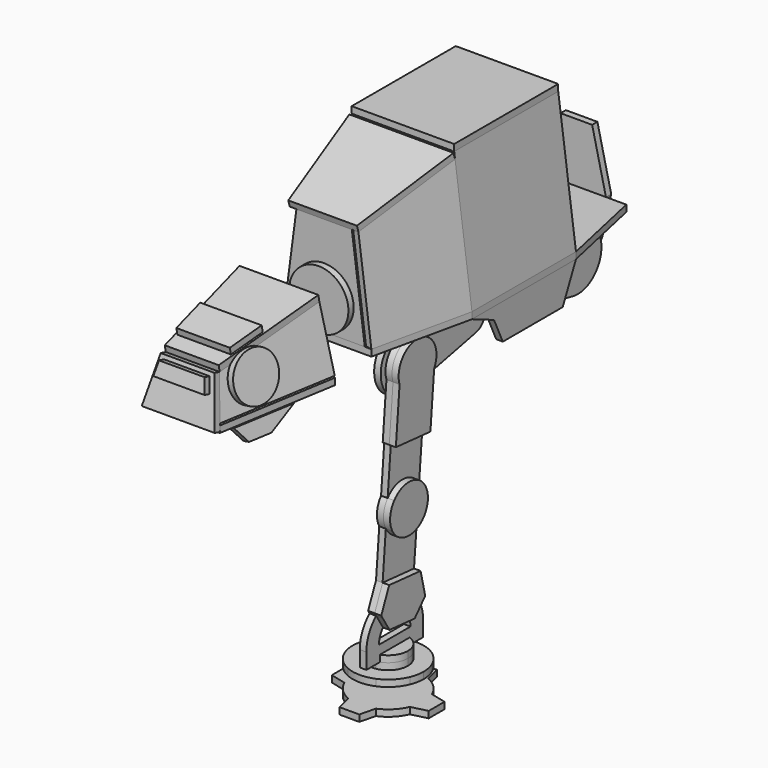
from build123d import *

# Parameters (mm, degrees)
F48_DEPTH = 5
F5_W      = 99
F5_H      = 103.8809414667
F49_DEPTH = 5
F7_W      = 78
F7_H      = 99
F50_DEPTH = 5
F51_DEPTH = 5
F52_DEPTH = 5
F24_R     = 22.5
F53_DEPTH = 5
F54_DEPTH = 5
F18_W     = 45
F18_H     = 165
F55_DEPTH = 5
F56_DEPTH = 5
F57_DEPTH = 5
F58_DEPTH = 5
F59_DEPTH = 5
F60_DEPTH = 5
F61_DEPTH = 5
F62_DEPTH = 5
F63_DEPTH = 5
F64_DEPTH = 5
F65_START = -5
F65_DEPTH = 5
F66_START = 5
F66_DEPTH = 5
F38_R     = 18
F67_DEPTH = 5
F68_DEPTH = 5
F69_START = 5
F69_DEPTH = 5
F70_DEPTH = 5
F71_DEPTH = 5
F72_DEPTH = 5
F73_START = -20
F73_DEPTH = 5
F74_DEPTH = 5
F76_DEPTH = 5
F78_DEPTH = 5


with BuildPart() as f48:
    # F2 (on Top) → F48 (new body)
    with BuildSketch(Plane.XY):
        Polygon((-37.98, 115.5), (-52.5, 49.5), (-52.5, -49.5), (-36, -124.5), (36, -124.5), (52.5, -49.5), (52.5, 49.5), (37.98, 115.5), align=None)
    extrude(amount=-F48_DEPTH)


with BuildPart() as f49:
    # F5 (on 3pt) → F49 (new body)
    with BuildSketch(Plane(origin=(51.6133441446, 0, 6.7648557859), x_dir=(0, -1, 0), z_dir=(-0.9915197008, 0, -0.1299564656))):
        with Locations((0, 45.1177562874)):
            Rectangle(F5_W, F5_H)
    extrude(amount=F49_DEPTH)


with BuildPart() as f50:
    # F7 (on 3pt) → F50 (new body)
    with BuildSketch(Plane(origin=(0, 0, 103), x_dir=(1, 0, 0), z_dir=(0, 0, -1))):
        Rectangle(F7_W, F7_H)
    extrude(amount=-F50_DEPTH)


with BuildPart() as f51:
    # F9 (on 3pt) → F51 (new body)
    with BuildSketch(Plane(origin=(59.4887955529, -13.0875350216, 7.7970751453), x_dir=(-0.211315445, -0.9770254226, -0.0276966845), z_dir=(-0.9687399547, 0.21312279, -0.1269707708))):
        Polygon((37.2686975556, -6.8227144459), (114.0323090917, -4.6784327629), (114.0323090917, 71.3215672371), (37.2686975556, 92.0582270207), align=None)
    extrude(amount=F51_DEPTH)


with BuildPart() as f52:
    # F13 (on 3pt) → F52 (new body)
    with BuildSketch(Plane(origin=(0, -31.3204983116, 103.5415563477), x_dir=(1, 0, 0), z_dir=(0, -0.2895354979, 0.9571672766))):
        Polygon((-39.6497823282, -18.9930246596), (-26.1233086116, -97.349234521), (26.1233086116, -97.349234521), (39.6497823282, -18.9930246596), align=None)
    extrude(amount=F52_DEPTH)


with BuildPart() as f53:
    # F24 (on face) → F53 (new body)
    with BuildSketch(Plane(origin=(0, -124.5, 0), x_dir=(-1, 0, 0), z_dir=(0, 1, 0))):
        Polygon((-21.0805444628, 75.3554972594), (-30.9572358511, 0), (30.9572358511, 0), (21.0805444628, 75.3554972594), align=None)
        with Locations((0, 23.5)):
            Circle(F24_R, mode=Mode.SUBTRACT)
        with Locations((0, 23.5)):
            Circle(F24_R)
    extrude(amount=F53_DEPTH)


with BuildPart() as f54:
    # F15 (on offset) → F54 (new body)
    with BuildSketch(Plane.YZ.offset(22.5)):
        with BuildLine():
            Line((82.5, -5), (-82.5, -5))
            ThreePointArc((-82.5, -5), (-104.8813194606, -29.8079296359), (-77.908487958, -49.5265298485))
            Line((-77.908487958, -49.5265298485), (-14.3572943804, -36.2790472626))
            ThreePointArc((-14.3572943804, -36.2790472626), (-8.3529634527, -32.6238806977), (-6, -26))
            Line((-6, -26), (6, -26))
            ThreePointArc((6, -26), (8.3529634527, -32.6238806977), (14.3572943804, -36.2790472626))
            Line((14.3572943804, -36.2790472626), (77.908487958, -49.5265298485))
            ThreePointArc((77.908487958, -49.5265298485), (104.8813194606, -29.8079296359), (82.5, -5))
        make_face()
    extrude(amount=F54_DEPTH)


with BuildPart() as f55:
    # F18 (on plane+point) → F55 (new body)
    with BuildSketch(Plane.XY.offset(-26)):
        Rectangle(F18_W, F18_H)
    extrude(amount=F55_DEPTH)


with BuildPart() as f56:
    # F20 (on plane+point) → F56 (new body)
    with BuildSketch(Plane.XZ.offset(-82.5)):
        with BuildLine():
            Line((22.5, -26), (22.5, -5))
            Line((22.5, -5), (-22.5, -5))
            Line((-22.5, -5), (-22.5, -26))
            ThreePointArc((-22.5, -26), (0, -48.5), (22.5, -26))
        make_face()
    extrude(amount=-F56_DEPTH)


with BuildPart() as f57:
    # F23 (on plane+point) → F57 (new body)
    with BuildSketch(Plane.XZ.offset(-115.5)):
        with BuildLine():
            Line((16.1276612262, -29.4854760611), (22.5, 0))
            Line((22.5, 0), (12, 45))
            Line((12, 45), (-12, 45))
            Line((-12, 45), (-22.5, 0))
            Line((-22.5, 0), (-16.1276612262, -29.4854760611))
            ThreePointArc((-16.1276612262, -29.4854760611), (0, -42.5), (16.1276612262, -29.4854760611))
        make_face()
    extrude(amount=-F57_DEPTH)


with BuildPart() as f58:
    # F24 (on face) → F58 (new body)
    with BuildSketch(Plane(origin=(0, -124.5, 0), x_dir=(-1, 0, 0), z_dir=(0, 1, 0))):
        with Locations((0, 23.5)):
            Circle(F24_R)
    extrude(amount=-F58_DEPTH)


with BuildPart() as f59:
    # F47 (on plane+point) → F59 (new body)
    with BuildSketch(Plane.YZ.offset(52.5)):
        Polygon((49.5, -5), (-49.5, -5), (-28.5, -14), (-20.1, -32), (36.9, -32), align=None)
    extrude(amount=-F59_DEPTH)


with BuildPart() as f60:
    # F29 (on plane+point) → F60 (new body)
    with BuildSketch(Plane.XY):
        Polygon((42, -166.5), (-42, -166.5), (-27, -257.5), (27, -257.5), align=None)
    extrude(amount=-F60_DEPTH)


with BuildPart() as f61:
    # F26 (on offset) → F61 (new body)
    with BuildSketch(Plane(origin=(0, -166.5, 0), x_dir=(-1, 0, 0), z_dir=(0, 1, 0))):
        Polygon((-37, 0), (37, 0), (25, 47), (-25, 47), align=None)
    extrude(amount=-F61_DEPTH)


with BuildPart() as f62:
    # F31 (on 3pt) → F62 (new body)
    with BuildSketch(Plane(origin=(63.5735017254, -10.4791486361, 16.2315323554), x_dir=(-0.1528108407, -0.987485005, -0.0390155338), z_dir=(-0.9567917103, 0.1577129193, -0.2442872452))):
        Polygon((157.9981980229, -9.1531800748), (249.8318702961, -5.4553018086), (241.9981980229, 24.5446981914), (157.9981980229, 38.1176350414), align=None)
    extrude(amount=F62_DEPTH)


with BuildPart() as f63:
    # F36 (on 3pt) → F63 (new body)
    with BuildSketch(Plane(origin=(0, -15.2417452642, 76.9573642054), x_dir=(1, 0, 0), z_dir=(0, -0.1942806764, 0.9809459816))):
        Polygon((-30, -154.1963141448), (-20.521606548, -238.7562613557), (20.521606548, -238.7562613557), (30, -154.1963141448), align=None)
    extrude(amount=F63_DEPTH)


with BuildPart() as f64:
    # F33 (on 3pt) → F64 (new body)
    with BuildSketch(Plane(origin=(0, -240.7989103349, 63.4161193448), x_dir=(-1, 0, 0), z_dir=(0, 0.9670270934, -0.2546735177))):
        Polygon((-20.521606548, -33.9643876649), (-27.7706407763, -69.3390963207), (27.7706407763, -69.3390963207), (20.521606548, -33.9643876649), align=None)
    extrude(amount=-F64_DEPTH)


with BuildPart() as f65:
    # F37 (on 3pt) → F65 (new body)
    with BuildSketch(Plane(origin=(0, -240.7989103349, 63.4161193448), x_dir=(-1, 0, 0), z_dir=(0, 0.9670270934, -0.2546735177)).offset(F65_START)):
        Polygon((19.5, -47.4643876649), (17.3483254763, -36.9643876649), (-17.3483254763, -36.9643876649), (-19.5, -47.4643876649), align=None)
    extrude(amount=-F65_DEPTH)


with BuildPart() as f66:
    # F39 (on 3pt) → F66 (new body)
    with BuildSketch(Plane(origin=(0, -15.2417452642, 76.9573642054), x_dir=(1, 0, 0), z_dir=(0, -0.1942806764, 0.9809459816)).offset(F66_START)):
        Polygon((-23.3837545089, -199.7562613557), (-20.3573024871, -226.7562613557), (20.3573024871, -226.7562613557), (23.3837545089, -199.7562613557), align=None)
    extrude(amount=F66_DEPTH)


with BuildPart() as f67:
    # F38 (on 3pt) → F67 (new body)
    with BuildSketch(Plane(origin=(63.5735017254, -10.4791486361, 16.2315323554), x_dir=(-0.1528108407, -0.987485005, -0.0390155338), z_dir=(-0.9567917103, 0.1577129193, -0.2442872452))):
        with Locations((219.7872278882, 13.8637693701)):
            Circle(F38_R)
    extrude(amount=-F67_DEPTH)


with BuildPart() as f68:
    # F41 (on offset) → F68 (new body)
    with BuildSketch(Plane.YZ.offset(27.5)):
        with BuildLine():
            ThreePointArc((-104.6812158559, -108.9267586862), (-89.0366807061, -102.2146023569), (-74.7953749131, -111.5414309686))
            Line((-74.7953749131, -111.5414309686), (-71.7405551805, -76.6246816496))
            Line((-71.7405551805, -76.6246816496), (-70.2462631334, -76.7554152637))
            Line((-70.2462631334, -76.7554152637), (-66.6897638692, -36.10444266))
            ThreePointArc((-66.6897638692, -36.10444266), (-80.9311966305, -9.5684954343), (-99.5641889063, -33.2283031494))
            Line((-99.5641889063, -33.2283031494), (-103.1206881704, -73.8792757531))
            Line((-103.1206881704, -73.8792757531), (-101.6263961233, -74.0100093672))
            Line((-101.6263961233, -74.0100093672), (-104.6812158559, -108.9267586862))
        make_face()
        with BuildLine():
            ThreePointArc((-76.5297522952, -131.3654551589), (-73.6148517735, -126.0890366695), (-72.6054840755, -120.1461069225))
            ThreePointArc((-72.6054840755, -120.1461069225), (-73.1615458028, -115.7066229955), (-74.7953749131, -111.5414309686))
            ThreePointArc((-74.7953749131, -111.5414309686), (-89.0366807061, -102.2146023569), (-104.6812158559, -108.9267586862))
            ThreePointArc((-104.6812158559, -108.9267586862), (-108.5369886412, -118.5773035531), (-106.415593238, -128.7507828765))
            ThreePointArc((-106.415593238, -128.7507828765), (-92.174287445, -138.0776114882), (-76.5297522952, -131.3654551589))
        make_face()
        with BuildLine():
            Line((-79.5845720278, -166.2822044779), (-76.5297522952, -131.3654551589))
            ThreePointArc((-76.5297522952, -131.3654551589), (-92.174287445, -138.0776114882), (-106.415593238, -128.7507828765))
            Line((-106.415593238, -128.7507828765), (-109.4704129706, -163.6675321954))
            Line((-109.4704129706, -163.6675321954), (-79.5845720278, -166.2822044779))
        make_face()
        Polygon((-75.1762072087, -184.7366435), (-79.5845720278, -166.2822044779), (-109.4704129706, -163.6675321954), (-117.0163845286, -181.0761023046), (-115.5756695293, -183.3934206463), (-109.0965011587, -193.8148403664), (-85.1878284045, -195.9065781924), (-76.9974326169, -186.768579035), align=None)
        with BuildLine():
            ThreePointArc((-70.9265664663, -203.8264615622), (-72.4895205104, -194.7734679671), (-76.9974326169, -186.768579035))
            Line((-76.9974326169, -186.768579035), (-85.1878284045, -195.9065781924))
            ThreePointArc((-85.1878284045, -195.9065781924), (-83.5029561186, -199.7082745174), (-82.9265664663, -203.8264615622))
            Line((-82.9265664663, -203.8264615622), (-112.9265664663, -203.8264615622))
            ThreePointArc((-112.9265664663, -203.8264615622), (-111.9363669714, -198.4668449895), (-109.0965011587, -193.8148403664))
            Line((-109.0965011587, -193.8148403664), (-115.5756695293, -183.3934206463))
            ThreePointArc((-115.5756695293, -183.3934206463), (-122.4777964019, -192.5909327073), (-124.9265664663, -203.8264615622))
            Line((-124.9265664663, -203.8264615622), (-124.9265664663, -215.8264615622))
            Line((-124.9265664663, -215.8264615622), (-70.9265664663, -215.8264615622))
            Line((-70.9265664663, -215.8264615622), (-70.9265664663, -203.8264615622))
        make_face()
    extrude(amount=F68_DEPTH)


with BuildPart() as f69:
    # F41 (on offset) → F69 (new body)
    with BuildSketch(Plane.YZ.offset(27.5).offset(F69_START)):
        with BuildLine():
            ThreePointArc((-76.5297522952, -131.3654551589), (-73.6148517735, -126.0890366695), (-72.6054840755, -120.1461069225))
            ThreePointArc((-72.6054840755, -120.1461069225), (-73.1615458028, -115.7066229955), (-74.7953749131, -111.5414309686))
            ThreePointArc((-74.7953749131, -111.5414309686), (-89.0366807061, -102.2146023569), (-104.6812158559, -108.9267586862))
            ThreePointArc((-104.6812158559, -108.9267586862), (-108.5369886412, -118.5773035531), (-106.415593238, -128.7507828765))
            ThreePointArc((-106.415593238, -128.7507828765), (-92.174287445, -138.0776114882), (-76.5297522952, -131.3654551589))
        make_face()
    extrude(amount=F69_DEPTH)


with BuildPart() as f70:
    # F43 (on line) → F70 (new body)
    with BuildSketch(Plane.XY.offset(-215.8264615622)):
        with BuildLine():
            ThreePointArc((30, -112.7167659241), (38.9564392374, -107.6090248319), (42.5, -97.9265664663))
            ThreePointArc((42.5, -97.9265664663), (38.9564392374, -88.2441081008), (30, -83.1363670086))
            Line((30, -83.1363670086), (30, -112.7167659241))
        make_face()
    extrude(amount=F70_DEPTH)


with BuildPart() as f71:
    # F43 (on line) → F71 (new body)
    with BuildSketch(Plane.XY.offset(-215.8264615622)):
        with BuildLine():
            Line((25, -112.7167659241), (25, -83.1363670086))
            ThreePointArc((25, -83.1363670086), (12.5, -97.9265664663), (25, -112.7167659241))
        make_face()
        with BuildLine():
            Line((30, -112.7167659241), (30, -83.1363670086))
            ThreePointArc((30, -83.1363670086), (27.5, -82.9265664663), (25, -83.1363670086))
            Line((25, -83.1363670086), (25, -112.7167659241))
            ThreePointArc((25, -112.7167659241), (27.5, -112.9265664663), (30, -112.7167659241))
        make_face()
        with BuildLine():
            ThreePointArc((30, -112.7167659241), (38.9564392374, -107.6090248319), (42.5, -97.9265664663))
            ThreePointArc((42.5, -97.9265664663), (38.9564392374, -88.2441081008), (30, -83.1363670086))
            Line((30, -83.1363670086), (30, -112.7167659241))
        make_face()
    extrude(amount=-F71_DEPTH)


with BuildPart() as f72:
    # F45 (on offset) → F72 (new body)
    with BuildSketch(Plane.XY.offset(-220.8264615622)):
        with BuildLine():
            ThreePointArc((52.3746859277, -108.4265664663), (53.9633380363, -103.2830335834), (54.5, -97.9265664663))
            ThreePointArc((54.5, -97.9265664663), (53.9633380363, -92.5700993492), (52.3746859277, -87.4265664663))
            ThreePointArc((52.3746859277, -87.4265664663), (46.591883092, -78.8346833743), (38, -73.0518805387))
            ThreePointArc((38, -73.0518805387), (27.5, -70.9265664663), (17, -73.0518805387))
            ThreePointArc((17, -73.0518805387), (8.408116908, -78.8346833743), (2.6253140723, -87.4265664663))
            ThreePointArc((2.6253140723, -87.4265664663), (0.5, -97.9265664663), (2.6253140723, -108.4265664663))
            ThreePointArc((2.6253140723, -108.4265664663), (8.408116908, -117.0184495584), (17, -122.801252394))
            ThreePointArc((17, -122.801252394), (27.5, -124.9265664663), (38, -122.801252394))
            ThreePointArc((38, -122.801252394), (46.591883092, -117.0184495584), (52.3746859277, -108.4265664663))
        make_face()
    extrude(amount=-F72_DEPTH)


with BuildPart() as f73:
    # F45 (on offset) → F73 (new body)
    with BuildSketch(Plane.XY.offset(-220.8264615622).offset(F73_START)):
        with BuildLine():
            Line((35, -134.801252394), (38, -122.801252394))
            ThreePointArc((38, -122.801252394), (27.5, -124.9265664663), (17, -122.801252394))
            Line((17, -122.801252394), (20, -134.801252394))
            Line((20, -134.801252394), (35, -134.801252394))
        make_face()
        with BuildLine():
            ThreePointArc((52.3746859277, -108.4265664663), (53.9633380363, -103.2830335834), (54.5, -97.9265664663))
            ThreePointArc((54.5, -97.9265664663), (53.9633380363, -92.5700993492), (52.3746859277, -87.4265664663))
            ThreePointArc((52.3746859277, -87.4265664663), (46.591883092, -78.8346833743), (38, -73.0518805387))
            ThreePointArc((38, -73.0518805387), (27.5, -70.9265664663), (17, -73.0518805387))
            ThreePointArc((17, -73.0518805387), (8.408116908, -78.8346833743), (2.6253140723, -87.4265664663))
            ThreePointArc((2.6253140723, -87.4265664663), (0.5, -97.9265664663), (2.6253140723, -108.4265664663))
            ThreePointArc((2.6253140723, -108.4265664663), (8.408116908, -117.0184495584), (17, -122.801252394))
            ThreePointArc((17, -122.801252394), (27.5, -124.9265664663), (38, -122.801252394))
            ThreePointArc((38, -122.801252394), (46.591883092, -117.0184495584), (52.3746859277, -108.4265664663))
        make_face()
        with BuildLine():
            ThreePointArc((2.6253140723, -108.4265664663), (0.5, -97.9265664663), (2.6253140723, -87.4265664663))
            Line((2.6253140723, -87.4265664663), (-9.3746859277, -90.4265664663))
            Line((-9.3746859277, -90.4265664663), (-9.3746859277, -105.4265664663))
            Line((-9.3746859277, -105.4265664663), (2.6253140723, -108.4265664663))
        make_face()
        with BuildLine():
            ThreePointArc((17, -73.0518805387), (27.5, -70.9265664663), (38, -73.0518805387))
            Line((38, -73.0518805387), (35, -61.0518805387))
            Line((35, -61.0518805387), (20, -61.0518805387))
            Line((20, -61.0518805387), (17, -73.0518805387))
        make_face()
        with BuildLine():
            ThreePointArc((52.3746859277, -87.4265664663), (53.9633380363, -92.5700993492), (54.5, -97.9265664663))
            ThreePointArc((54.5, -97.9265664663), (53.9633380363, -103.2830335834), (52.3746859277, -108.4265664663))
            Line((52.3746859277, -108.4265664663), (64.3746859277, -105.4265664663))
            Line((64.3746859277, -105.4265664663), (64.3746859277, -90.4265664663))
            Line((64.3746859277, -90.4265664663), (52.3746859277, -87.4265664663))
        make_face()
    extrude(amount=-F73_DEPTH)


with BuildPart() as f74:
    # F31 (on 3pt) → F74 (new body)
    with BuildSketch(Plane(origin=(63.5735017254, -10.4791486361, 16.2315323554), x_dir=(-0.1528108407, -0.987485005, -0.0390155338), z_dir=(-0.9567917103, 0.1577129193, -0.2442872452))):
        Polygon((231.1514960878, -24.2220938981), (240.1514960878, -12.0860708677), (192.1903634273, -14.0173279512), (213.1660713401, -24.9463153044), align=None)
    extrude(amount=F74_DEPTH)


with BuildPart() as f76:
    # F75 (on face) → F76 (new body)
    with BuildSketch(Plane.YZ.offset(32.5)):
        Polygon((-75.1762072087, -184.7366435), (-79.5845720278, -166.2822044779), (-109.4704129706, -163.6675321954), (-117.0163845286, -181.0761023046), (-115.5756695293, -183.3934206463), (-109.0965011587, -193.8148403664), (-85.1878284045, -195.9065781924), (-76.9974326169, -186.768579035), align=None)
    extrude(amount=F76_DEPTH)


with BuildPart() as f78:
    # F77 (on face) → F78 (new body)
    with BuildSketch(Plane.YZ.offset(32.5)):
        with BuildLine():
            Line((-99.5641889063, -33.2283031494), (-103.1206881704, -73.8792757531))
            Line((-103.1206881704, -73.8792757531), (-70.2462631334, -76.7554152637))
            Line((-70.2462631334, -76.7554152637), (-66.6897638692, -36.10444266))
            ThreePointArc((-66.6897638692, -36.10444266), (-80.9311966305, -9.5684954343), (-99.5641889063, -33.2283031494))
        make_face()
    extrude(amount=F78_DEPTH)


solid = Compound([f48.part, f49.part, f50.part, f51.part, f52.part, f53.part, f54.part, f55.part, f56.part, f57.part, f58.part, f59.part, f60.part, f61.part, f62.part, f63.part, f64.part, f65.part, f66.part, f67.part, f68.part, f69.part, f70.part, f71.part, f72.part, f73.part, f74.part, f76.part, f78.part])
